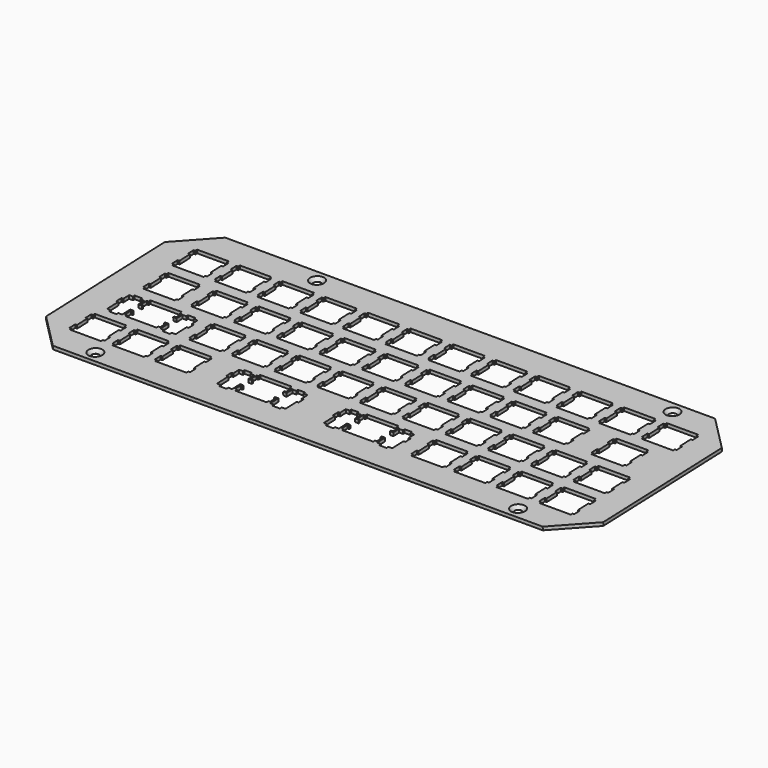
from build123d import *

# Parameters (mm, degrees)
SKETCH_W             = 248.5999154
SKETCH_H             = 96.199807
PAD_DEPTH            = 1.5
HOLE_D               = 3.4
HOLE_DEPTH           = 25
HOLE_CSINK_D         = 6.3
HOLE_CSINK_ANGLE     = 90
CHAMFER_SIZE         = 15
BODY_PLACEMENT_ANGLE = 2


with BuildPart() as part:
    # Sketch → Pad (new body)
    with BuildSketch(Plane(origin=(0, 0, 0), x_dir=(-1, 0, 0), z_dir=(0, 0, 1))):
        with Locations((-124.2999577, -48.0999035)):
            Rectangle(SKETCH_W, SKETCH_H)
        Polygon((-86.3420154, -26.525407), (-86.3420154, -25.525007), (-85.5426154, -25.525007), (-85.5426154, -22.427107), (-86.3420154, -22.427107), (-86.3420154, -21.824907), (-84.8180154, -21.824907), (-84.8180154, -25.055107), (-83.0925154, -25.055107), (-83.0925154, -25.977007), (-79.7919154, -25.977007), (-79.7919154, -25.055107), (-78.0669154, -25.055107), (-78.0669154, -21.824907), (-77.2428154, -21.824907), (-77.2428154, -19.026147), (-78.0669154, -19.026147), (-78.0669154, -12.756077), (-79.7919154, -12.756077), (-79.7919154, -11.774917), (-83.0925154, -11.774917), (-83.0925154, -12.756077), (-84.8180154, -12.756077), (-84.8180154, -17.225037), (-86.3420154, -17.225037), (-86.3420154, -16.625597), (-85.5426154, -16.625597), (-85.5426154, -13.525037), (-86.3420154, -13.525037), (-86.3420154, -12.525947), (-100.3427154, -12.525947), (-100.3427154, -13.525037), (-101.1421154, -13.525037), (-101.1421154, -16.625597), (-100.3427154, -16.625597), (-100.3427154, -17.225037), (-101.8670154, -17.225037), (-101.8670154, -12.756077), (-103.5921154, -12.756077), (-103.5921154, -11.774917), (-106.8927154, -11.774917), (-106.8927154, -12.756077), (-108.6178154, -12.756077), (-108.6178154, -19.026147), (-109.4419154, -19.026147), (-109.4419154, -21.824907), (-108.6178154, -21.824907), (-108.6178154, -25.055107), (-106.8927154, -25.055107), (-106.8927154, -25.977007), (-103.5921154, -25.977007), (-103.5921154, -25.055107), (-101.8670154, -25.055107), (-101.8670154, -21.824907), (-100.3427154, -21.824907), (-100.3427154, -22.427107), (-101.1421154, -22.427107), (-101.1421154, -25.525007), (-100.3427154, -25.525007), (-100.3427154, -26.525407), align=None, mode=Mode.SUBTRACT)
        Polygon((-133.9669154, -26.525407), (-133.9669154, -25.525007), (-133.1679154, -25.525007), (-133.1679154, -22.427107), (-133.9669154, -22.427107), (-133.9669154, -21.824907), (-132.4429154, -21.824907), (-132.4429154, -25.055107), (-130.7179154, -25.055107), (-130.7179154, -25.977007), (-127.4169154, -25.977007), (-127.4169154, -25.055107), (-125.6919154, -25.055107), (-125.6919154, -21.824907), (-124.8679154, -21.824907), (-124.8679154, -19.026147), (-125.6919154, -19.026147), (-125.6919154, -12.756077), (-127.4169154, -12.756077), (-127.4169154, -11.774917), (-130.7179154, -11.774917), (-130.7179154, -12.756077), (-132.4429154, -12.756077), (-132.4429154, -17.225037), (-133.9669154, -17.225037), (-133.9669154, -16.625597), (-133.1679154, -16.625597), (-133.1679154, -13.525037), (-133.9669154, -13.525037), (-133.9669154, -12.525947), (-147.9679154, -12.525947), (-147.9679154, -13.525037), (-148.7669154, -13.525037), (-148.7669154, -16.625597), (-147.9679154, -16.625597), (-147.9679154, -17.225037), (-149.4919154, -17.225037), (-149.4919154, -12.756077), (-151.2169154, -12.756077), (-151.2169154, -11.774917), (-154.5179154, -11.774917), (-154.5179154, -12.756077), (-156.2429154, -12.756077), (-156.2429154, -19.026147), (-157.0669154, -19.026147), (-157.0669154, -21.824907), (-156.2429154, -21.824907), (-156.2429154, -25.055107), (-154.5179154, -25.055107), (-154.5179154, -25.977007), (-151.2169154, -25.977007), (-151.2169154, -25.055107), (-149.4919154, -25.055107), (-149.4919154, -21.824907), (-147.9679154, -21.824907), (-147.9679154, -22.427107), (-148.7669154, -22.427107), (-148.7669154, -25.525007), (-147.9679154, -25.525007), (-147.9679154, -26.525407), align=None, mode=Mode.SUBTRACT)
        Polygon((-12.5245654, -26.525407), (-12.5245654, -25.525007), (-11.7239254, -25.525007), (-11.7239254, -22.427107), (-12.5245654, -22.427107), (-12.5245654, -16.625597), (-11.7239254, -16.625597), (-11.7239254, -13.525037), (-12.5245654, -13.525037), (-12.5245654, -12.525947), (-26.5241154, -12.525947), (-26.5241154, -13.525037), (-27.3247154, -13.525037), (-27.3247154, -16.625597), (-26.5241154, -16.625597), (-26.5241154, -22.427107), (-27.3247154, -22.427107), (-27.3247154, -25.525007), (-26.5241154, -25.525007), (-26.5241154, -26.525407), align=None, mode=Mode.SUBTRACT)
        Polygon((-31.5746154, -26.525407), (-31.5746154, -25.525007), (-30.7739154, -25.525007), (-30.7739154, -22.427107), (-31.5746154, -22.427107), (-31.5746154, -16.625597), (-30.7739154, -16.625597), (-30.7739154, -13.525037), (-31.5746154, -13.525037), (-31.5746154, -12.525947), (-45.5739154, -12.525947), (-45.5739154, -13.525037), (-46.3747154, -13.525037), (-46.3747154, -16.625597), (-45.5739154, -16.625597), (-45.5739154, -22.427107), (-46.3747154, -22.427107), (-46.3747154, -25.525007), (-45.5739154, -25.525007), (-45.5739154, -26.525407), align=None, mode=Mode.SUBTRACT)
        Polygon((-50.6246154, -26.525407), (-50.6246154, -25.525007), (-49.8238154, -25.525007), (-49.8238154, -22.427107), (-50.6246154, -22.427107), (-50.6246154, -16.625597), (-49.8238154, -16.625597), (-49.8238154, -13.525037), (-50.6246154, -13.525037), (-50.6246154, -12.525947), (-64.6239154, -12.525947), (-64.6239154, -13.525037), (-65.4247154, -13.525037), (-65.4247154, -16.625597), (-64.6239154, -16.625597), (-64.6239154, -22.427107), (-65.4247154, -22.427107), (-65.4247154, -25.525007), (-64.6239154, -25.525007), (-64.6239154, -26.525407), align=None, mode=Mode.SUBTRACT)
        Polygon((-164.9249154, -26.525407), (-164.9249154, -25.525007), (-164.1239154, -25.525007), (-164.1239154, -22.427107), (-164.9249154, -22.427107), (-164.9249154, -16.625597), (-164.1239154, -16.625597), (-164.1239154, -13.525037), (-164.9249154, -13.525037), (-164.9249154, -12.525947), (-178.9239154, -12.525947), (-178.9239154, -13.525037), (-179.7249154, -13.525037), (-179.7249154, -16.625597), (-178.9239154, -16.625597), (-178.9239154, -22.427107), (-179.7249154, -22.427107), (-179.7249154, -25.525007), (-178.9239154, -25.525007), (-178.9239154, -26.525407), align=None, mode=Mode.SUBTRACT)
        Polygon((-183.9749154, -26.525407), (-183.9749154, -25.525007), (-183.1739154, -25.525007), (-183.1739154, -22.427107), (-183.9749154, -22.427107), (-183.9749154, -16.625597), (-183.1739154, -16.625597), (-183.1739154, -13.525037), (-183.9749154, -13.525037), (-183.9749154, -12.525947), (-197.9739154, -12.525947), (-197.9739154, -13.525037), (-198.7749154, -13.525037), (-198.7749154, -16.625597), (-197.9739154, -16.625597), (-197.9739154, -22.427107), (-198.7749154, -22.427107), (-198.7749154, -25.525007), (-197.9739154, -25.525007), (-197.9739154, -26.525407), align=None, mode=Mode.SUBTRACT)
        Polygon((-203.0249154, -26.525407), (-203.0249154, -25.525007), (-202.2239154, -25.525007), (-202.2239154, -22.427107), (-203.0249154, -22.427107), (-203.0249154, -16.625597), (-202.2239154, -16.625597), (-202.2239154, -13.525037), (-203.0249154, -13.525037), (-203.0249154, -12.525947), (-217.0239154, -12.525947), (-217.0239154, -13.525037), (-217.8249154, -13.525037), (-217.8249154, -16.625597), (-217.0239154, -16.625597), (-217.0239154, -22.427107), (-217.8249154, -22.427107), (-217.8249154, -25.525007), (-217.0239154, -25.525007), (-217.0239154, -26.525407), align=None, mode=Mode.SUBTRACT)
        Polygon((-222.0749154, -26.525407), (-222.0749154, -25.525007), (-221.2739154, -25.525007), (-221.2739154, -22.427107), (-222.0749154, -22.427107), (-222.0749154, -16.625597), (-221.2739154, -16.625597), (-221.2739154, -13.525037), (-222.0749154, -13.525037), (-222.0749154, -12.525947), (-236.0739154, -12.525947), (-236.0739154, -13.525037), (-236.8749154, -13.525037), (-236.8749154, -16.625597), (-236.0739154, -16.625597), (-236.0739154, -22.427107), (-236.8749154, -22.427107), (-236.8749154, -25.525007), (-236.0739154, -25.525007), (-236.0739154, -26.525407), align=None, mode=Mode.SUBTRACT)
        Polygon((-22.0496154, -45.575307), (-22.0496154, -44.575007), (-21.2489154, -44.575007), (-21.2489154, -41.475807), (-22.0496154, -41.475807), (-22.0496154, -40.874907), (-20.5241154, -40.874907), (-20.5241154, -44.105107), (-18.7987654, -44.105107), (-18.7987654, -45.025707), (-15.4997554, -45.025707), (-15.4997554, -44.105107), (-13.7744654, -44.105107), (-13.7744654, -40.874907), (-12.9490054, -40.874907), (-12.9490054, -38.076107), (-13.7744654, -38.076107), (-13.7744654, -31.806107), (-15.4997554, -31.806107), (-15.4997554, -30.824907), (-18.7987654, -30.824907), (-18.7987654, -31.806107), (-20.5241154, -31.806107), (-20.5241154, -36.275007), (-22.0496154, -36.275007), (-22.0496154, -35.675607), (-21.2489154, -35.675607), (-21.2489154, -32.575007), (-22.0496154, -32.575007), (-22.0496154, -31.575907), (-36.0490154, -31.575907), (-36.0490154, -32.575007), (-36.8497154, -32.575007), (-36.8497154, -35.675607), (-36.0490154, -35.675607), (-36.0490154, -36.275007), (-37.5745154, -36.275007), (-37.5745154, -31.806107), (-39.2998154, -31.806107), (-39.2998154, -30.824907), (-42.5989154, -30.824907), (-42.5989154, -31.806107), (-44.3242154, -31.806107), (-44.3242154, -38.076107), (-45.1496154, -38.076107), (-45.1496154, -40.874907), (-44.3242154, -40.874907), (-44.3242154, -44.105107), (-42.5989154, -44.105107), (-42.5989154, -45.025707), (-39.2998154, -45.025707), (-39.2998154, -44.105107), (-37.5745154, -44.105107), (-37.5745154, -40.874907), (-36.0490154, -40.874907), (-36.0490154, -41.475807), (-36.8497154, -41.475807), (-36.8497154, -44.575007), (-36.0490154, -44.575007), (-36.0490154, -45.575307), align=None, mode=Mode.SUBTRACT)
        Polygon((-50.6246154, -45.575307), (-50.6246154, -44.575007), (-49.8238154, -44.575007), (-49.8238154, -41.475807), (-50.6246154, -41.475807), (-50.6246154, -35.675607), (-49.8238154, -35.675607), (-49.8238154, -32.575007), (-50.6246154, -32.575007), (-50.6246154, -31.575907), (-64.6239154, -31.575907), (-64.6239154, -32.575007), (-65.4247154, -32.575007), (-65.4247154, -35.675607), (-64.6239154, -35.675607), (-64.6239154, -41.475807), (-65.4247154, -41.475807), (-65.4247154, -44.575007), (-64.6239154, -44.575007), (-64.6239154, -45.575307), align=None, mode=Mode.SUBTRACT)
        Polygon((-69.6746154, -45.575307), (-69.6746154, -44.575007), (-68.8738154, -44.575007), (-68.8738154, -41.475807), (-69.6746154, -41.475807), (-69.6746154, -35.675607), (-68.8738154, -35.675607), (-68.8738154, -32.575007), (-69.6746154, -32.575007), (-69.6746154, -31.575907), (-83.6739154, -31.575907), (-83.6739154, -32.575007), (-84.4747154, -32.575007), (-84.4747154, -35.675607), (-83.6739154, -35.675607), (-83.6739154, -41.475807), (-84.4747154, -41.475807), (-84.4747154, -44.575007), (-83.6739154, -44.575007), (-83.6739154, -45.575307), align=None, mode=Mode.SUBTRACT)
        Polygon((-88.7246154, -45.575307), (-88.7246154, -44.575007), (-87.9238154, -44.575007), (-87.9238154, -41.475807), (-88.7246154, -41.475807), (-88.7246154, -35.675607), (-87.9238154, -35.675607), (-87.9238154, -32.575007), (-88.7246154, -32.575007), (-88.7246154, -31.575907), (-102.7239154, -31.575907), (-102.7239154, -32.575007), (-103.5233154, -32.575007), (-103.5233154, -35.675607), (-102.7239154, -35.675607), (-102.7239154, -41.475807), (-103.5233154, -41.475807), (-103.5233154, -44.575007), (-102.7239154, -44.575007), (-102.7239154, -45.575307), align=None, mode=Mode.SUBTRACT)
        Polygon((-107.7732154, -45.575307), (-107.7732154, -44.575007), (-106.9738154, -44.575007), (-106.9738154, -41.475807), (-107.7732154, -41.475807), (-107.7732154, -35.675607), (-106.9738154, -35.675607), (-106.9738154, -32.575007), (-107.7732154, -32.575007), (-107.7732154, -31.575907), (-121.7739154, -31.575907), (-121.7739154, -32.575007), (-122.5729154, -32.575007), (-122.5729154, -35.675607), (-121.7739154, -35.675607), (-121.7739154, -41.475807), (-122.5729154, -41.475807), (-122.5729154, -44.575007), (-121.7739154, -44.575007), (-121.7739154, -45.575307), align=None, mode=Mode.SUBTRACT)
        Polygon((-126.8229154, -45.575307), (-126.8229154, -44.575007), (-126.0239154, -44.575007), (-126.0239154, -41.475807), (-126.8229154, -41.475807), (-126.8229154, -35.675607), (-126.0239154, -35.675607), (-126.0239154, -32.575007), (-126.8229154, -32.575007), (-126.8229154, -31.575907), (-140.8239154, -31.575907), (-140.8239154, -32.575007), (-141.6249154, -32.575007), (-141.6249154, -35.675607), (-140.8239154, -35.675607), (-140.8239154, -41.475807), (-141.6249154, -41.475807), (-141.6249154, -44.575007), (-140.8239154, -44.575007), (-140.8239154, -45.575307), align=None, mode=Mode.SUBTRACT)
        Polygon((-145.8749154, -45.575307), (-145.8749154, -44.575007), (-145.0739154, -44.575007), (-145.0739154, -41.475807), (-145.8749154, -41.475807), (-145.8749154, -35.675607), (-145.0739154, -35.675607), (-145.0739154, -32.575007), (-145.8749154, -32.575007), (-145.8749154, -31.575907), (-159.8739154, -31.575907), (-159.8739154, -32.575007), (-160.6749154, -32.575007), (-160.6749154, -35.675607), (-159.8739154, -35.675607), (-159.8739154, -41.475807), (-160.6749154, -41.475807), (-160.6749154, -44.575007), (-159.8739154, -44.575007), (-159.8739154, -45.575307), align=None, mode=Mode.SUBTRACT)
        Polygon((-164.9249154, -45.575307), (-164.9249154, -44.575007), (-164.1239154, -44.575007), (-164.1239154, -41.475807), (-164.9249154, -41.475807), (-164.9249154, -35.675607), (-164.1239154, -35.675607), (-164.1239154, -32.575007), (-164.9249154, -32.575007), (-164.9249154, -31.575907), (-178.9239154, -31.575907), (-178.9239154, -32.575007), (-179.7249154, -32.575007), (-179.7249154, -35.675607), (-178.9239154, -35.675607), (-178.9239154, -41.475807), (-179.7249154, -41.475807), (-179.7249154, -44.575007), (-178.9239154, -44.575007), (-178.9239154, -45.575307), align=None, mode=Mode.SUBTRACT)
        Polygon((-183.9749154, -45.575307), (-183.9749154, -44.575007), (-183.1739154, -44.575007), (-183.1739154, -41.475807), (-183.9749154, -41.475807), (-183.9749154, -35.675607), (-183.1739154, -35.675607), (-183.1739154, -32.575007), (-183.9749154, -32.575007), (-183.9749154, -31.575907), (-197.9739154, -31.575907), (-197.9739154, -32.575007), (-198.7749154, -32.575007), (-198.7749154, -35.675607), (-197.9739154, -35.675607), (-197.9739154, -41.475807), (-198.7749154, -41.475807), (-198.7749154, -44.575007), (-197.9739154, -44.575007), (-197.9739154, -45.575307), align=None, mode=Mode.SUBTRACT)
        Polygon((-203.0249154, -45.575307), (-203.0249154, -44.575007), (-202.2239154, -44.575007), (-202.2239154, -41.475807), (-203.0249154, -41.475807), (-203.0249154, -35.675607), (-202.2239154, -35.675607), (-202.2239154, -32.575007), (-203.0249154, -32.575007), (-203.0249154, -31.575907), (-217.0239154, -31.575907), (-217.0239154, -32.575007), (-217.8249154, -32.575007), (-217.8249154, -35.675607), (-217.0239154, -35.675607), (-217.0239154, -41.475807), (-217.8249154, -41.475807), (-217.8249154, -44.575007), (-217.0239154, -44.575007), (-217.0239154, -45.575307), align=None, mode=Mode.SUBTRACT)
        Polygon((-222.0749154, -45.575307), (-222.0749154, -44.575007), (-221.2739154, -44.575007), (-221.2739154, -41.475807), (-222.0749154, -41.475807), (-222.0749154, -35.675607), (-221.2739154, -35.675607), (-221.2739154, -32.575007), (-222.0749154, -32.575007), (-222.0749154, -31.575907), (-236.0739154, -31.575907), (-236.0739154, -32.575007), (-236.8749154, -32.575007), (-236.8749154, -35.675607), (-236.0739154, -35.675607), (-236.0739154, -41.475807), (-236.8749154, -41.475807), (-236.8749154, -44.575007), (-236.0739154, -44.575007), (-236.0739154, -45.575307), align=None, mode=Mode.SUBTRACT)
        Polygon((-14.9058254, -64.625407), (-14.9058254, -63.624907), (-14.1051954, -63.624907), (-14.1051954, -60.525707), (-14.9058254, -60.525707), (-14.9058254, -54.725707), (-14.1051954, -54.725707), (-14.1051954, -51.625107), (-14.9058254, -51.625107), (-14.9058254, -50.626107), (-28.9053154, -50.626107), (-28.9053154, -51.625107), (-29.7059154, -51.625107), (-29.7059154, -54.725707), (-28.9053154, -54.725707), (-28.9053154, -60.525707), (-29.7059154, -60.525707), (-29.7059154, -63.624907), (-28.9053154, -63.624907), (-28.9053154, -64.625407), align=None, mode=Mode.SUBTRACT)
        Polygon((-36.3371154, -64.625407), (-36.3371154, -63.624907), (-35.5364154, -63.624907), (-35.5364154, -60.525707), (-36.3371154, -60.525707), (-36.3371154, -54.725707), (-35.5364154, -54.725707), (-35.5364154, -51.625107), (-36.3371154, -51.625107), (-36.3371154, -50.626107), (-50.3364154, -50.626107), (-50.3364154, -51.625107), (-51.1358154, -51.625107), (-51.1358154, -54.725707), (-50.3364154, -54.725707), (-50.3364154, -60.525707), (-51.1358154, -60.525707), (-51.1358154, -63.624907), (-50.3364154, -63.624907), (-50.3364154, -64.625407), align=None, mode=Mode.SUBTRACT)
        Polygon((-55.3871154, -64.625407), (-55.3871154, -63.624907), (-54.5863154, -63.624907), (-54.5863154, -60.525707), (-55.3871154, -60.525707), (-55.3871154, -54.725707), (-54.5863154, -54.725707), (-54.5863154, -51.625107), (-55.3871154, -51.625107), (-55.3871154, -50.626107), (-69.3864154, -50.626107), (-69.3864154, -51.625107), (-70.1858154, -51.625107), (-70.1858154, -54.725707), (-69.3864154, -54.725707), (-69.3864154, -60.525707), (-70.1858154, -60.525707), (-70.1858154, -63.624907), (-69.3864154, -63.624907), (-69.3864154, -64.625407), align=None, mode=Mode.SUBTRACT)
        Polygon((-74.4371154, -64.625407), (-74.4371154, -63.624907), (-73.6363154, -63.624907), (-73.6363154, -60.525707), (-74.4371154, -60.525707), (-74.4371154, -54.725707), (-73.6363154, -54.725707), (-73.6363154, -51.625107), (-74.4371154, -51.625107), (-74.4371154, -50.626107), (-88.4364154, -50.626107), (-88.4364154, -51.625107), (-89.2358154, -51.625107), (-89.2358154, -54.725707), (-88.4364154, -54.725707), (-88.4364154, -60.525707), (-89.2358154, -60.525707), (-89.2358154, -63.624907), (-88.4364154, -63.624907), (-88.4364154, -64.625407), align=None, mode=Mode.SUBTRACT)
        Polygon((-93.4871154, -64.625407), (-93.4871154, -63.624907), (-92.6863154, -63.624907), (-92.6863154, -60.525707), (-93.4871154, -60.525707), (-93.4871154, -54.725707), (-92.6863154, -54.725707), (-92.6863154, -51.625107), (-93.4871154, -51.625107), (-93.4871154, -50.626107), (-107.4864154, -50.626107), (-107.4864154, -51.625107), (-108.2858154, -51.625107), (-108.2858154, -54.725707), (-107.4864154, -54.725707), (-107.4864154, -60.525707), (-108.2858154, -60.525707), (-108.2858154, -63.624907), (-107.4864154, -63.624907), (-107.4864154, -64.625407), align=None, mode=Mode.SUBTRACT)
        Polygon((-112.5369154, -64.625407), (-112.5369154, -63.624907), (-111.7359154, -63.624907), (-111.7359154, -60.525707), (-112.5369154, -60.525707), (-112.5369154, -54.725707), (-111.7359154, -54.725707), (-111.7359154, -51.625107), (-112.5369154, -51.625107), (-112.5369154, -50.626107), (-126.5369154, -50.626107), (-126.5369154, -51.625107), (-127.3359154, -51.625107), (-127.3359154, -54.725707), (-126.5369154, -54.725707), (-126.5369154, -60.525707), (-127.3359154, -60.525707), (-127.3359154, -63.624907), (-126.5369154, -63.624907), (-126.5369154, -64.625407), align=None, mode=Mode.SUBTRACT)
        Polygon((-131.5869154, -64.625407), (-131.5869154, -63.624907), (-130.7859154, -63.624907), (-130.7859154, -60.525707), (-131.5869154, -60.525707), (-131.5869154, -54.725707), (-130.7859154, -54.725707), (-130.7859154, -51.625107), (-131.5869154, -51.625107), (-131.5869154, -50.626107), (-145.5869154, -50.626107), (-145.5869154, -51.625107), (-146.3859154, -51.625107), (-146.3859154, -54.725707), (-145.5869154, -54.725707), (-145.5869154, -60.525707), (-146.3859154, -60.525707), (-146.3859154, -63.624907), (-145.5869154, -63.624907), (-145.5869154, -64.625407), align=None, mode=Mode.SUBTRACT)
        Polygon((-150.6369154, -64.625407), (-150.6369154, -63.624907), (-149.8359154, -63.624907), (-149.8359154, -60.525707), (-150.6369154, -60.525707), (-150.6369154, -54.725707), (-149.8359154, -54.725707), (-149.8359154, -51.625107), (-150.6369154, -51.625107), (-150.6369154, -50.626107), (-164.6369154, -50.626107), (-164.6369154, -51.625107), (-165.4359154, -51.625107), (-165.4359154, -54.725707), (-164.6369154, -54.725707), (-164.6369154, -60.525707), (-165.4359154, -60.525707), (-165.4359154, -63.624907), (-164.6369154, -63.624907), (-164.6369154, -64.625407), align=None, mode=Mode.SUBTRACT)
        Polygon((-169.6869154, -64.625407), (-169.6869154, -63.624907), (-168.8859154, -63.624907), (-168.8859154, -60.525707), (-169.6869154, -60.525707), (-169.6869154, -54.725707), (-168.8859154, -54.725707), (-168.8859154, -51.625107), (-169.6869154, -51.625107), (-169.6869154, -50.626107), (-183.6869154, -50.626107), (-183.6869154, -51.625107), (-184.4859154, -51.625107), (-184.4859154, -54.725707), (-183.6869154, -54.725707), (-183.6869154, -60.525707), (-184.4859154, -60.525707), (-184.4859154, -63.624907), (-183.6869154, -63.624907), (-183.6869154, -64.625407), align=None, mode=Mode.SUBTRACT)
        Polygon((-188.7369154, -64.625407), (-188.7369154, -63.624907), (-187.9359154, -63.624907), (-187.9359154, -60.525707), (-188.7369154, -60.525707), (-188.7369154, -54.725707), (-187.9359154, -54.725707), (-187.9359154, -51.625107), (-188.7369154, -51.625107), (-188.7369154, -50.626107), (-202.7369154, -50.626107), (-202.7369154, -51.625107), (-203.5359154, -51.625107), (-203.5359154, -54.725707), (-202.7369154, -54.725707), (-202.7369154, -60.525707), (-203.5359154, -60.525707), (-203.5359154, -63.624907), (-202.7369154, -63.624907), (-202.7369154, -64.625407), align=None, mode=Mode.SUBTRACT)
        Polygon((-214.9309154, -64.625407), (-214.9309154, -63.624907), (-214.1299154, -63.624907), (-214.1299154, -60.525707), (-214.9309154, -60.525707), (-214.9309154, -54.725707), (-214.1299154, -54.725707), (-214.1299154, -51.625107), (-214.9309154, -51.625107), (-214.9309154, -50.626107), (-228.9299154, -50.626107), (-228.9299154, -51.625107), (-229.7309154, -51.625107), (-229.7309154, -54.725707), (-228.9299154, -54.725707), (-228.9299154, -60.525707), (-229.7309154, -60.525707), (-229.7309154, -63.624907), (-228.9299154, -63.624907), (-228.9299154, -64.625407), align=None, mode=Mode.SUBTRACT)
        Polygon((-12.5245654, -83.675407), (-12.5245654, -82.674907), (-11.7239254, -82.674907), (-11.7239254, -79.575707), (-12.5245654, -79.575707), (-12.5245654, -73.775707), (-11.7239254, -73.775707), (-11.7239254, -70.675107), (-12.5245654, -70.675107), (-12.5245654, -69.676107), (-26.5241154, -69.676107), (-26.5241154, -70.675107), (-27.3247154, -70.675107), (-27.3247154, -73.775707), (-26.5241154, -73.775707), (-26.5241154, -79.575707), (-27.3247154, -79.575707), (-27.3247154, -82.674907), (-26.5241154, -82.674907), (-26.5241154, -83.675407), align=None, mode=Mode.SUBTRACT)
        Polygon((-31.5746154, -83.675407), (-31.5746154, -82.674907), (-30.7739154, -82.674907), (-30.7739154, -79.575707), (-31.5746154, -79.575707), (-31.5746154, -73.775707), (-30.7739154, -73.775707), (-30.7739154, -70.675107), (-31.5746154, -70.675107), (-31.5746154, -69.676107), (-45.5739154, -69.676107), (-45.5739154, -70.675107), (-46.3747154, -70.675107), (-46.3747154, -73.775707), (-45.5739154, -73.775707), (-45.5739154, -79.575707), (-46.3747154, -79.575707), (-46.3747154, -82.674907), (-45.5739154, -82.674907), (-45.5739154, -83.675407), align=None, mode=Mode.SUBTRACT)
        Polygon((-50.6246154, -83.675407), (-50.6246154, -82.674907), (-49.8238154, -82.674907), (-49.8238154, -79.575707), (-50.6246154, -79.575707), (-50.6246154, -73.775707), (-49.8238154, -73.775707), (-49.8238154, -70.675107), (-50.6246154, -70.675107), (-50.6246154, -69.676107), (-64.6239154, -69.676107), (-64.6239154, -70.675107), (-65.4247154, -70.675107), (-65.4247154, -73.775707), (-64.6239154, -73.775707), (-64.6239154, -79.575707), (-65.4247154, -79.575707), (-65.4247154, -82.674907), (-64.6239154, -82.674907), (-64.6239154, -83.675407), align=None, mode=Mode.SUBTRACT)
        Polygon((-69.6746154, -83.675407), (-69.6746154, -82.674907), (-68.8738154, -82.674907), (-68.8738154, -79.575707), (-69.6746154, -79.575707), (-69.6746154, -73.775707), (-68.8738154, -73.775707), (-68.8738154, -70.675107), (-69.6746154, -70.675107), (-69.6746154, -69.676107), (-83.6739154, -69.676107), (-83.6739154, -70.675107), (-84.4747154, -70.675107), (-84.4747154, -73.775707), (-83.6739154, -73.775707), (-83.6739154, -79.575707), (-84.4747154, -79.575707), (-84.4747154, -82.674907), (-83.6739154, -82.674907), (-83.6739154, -83.675407), align=None, mode=Mode.SUBTRACT)
        Polygon((-88.7246154, -83.675407), (-88.7246154, -82.674907), (-87.9238154, -82.674907), (-87.9238154, -79.575707), (-88.7246154, -79.575707), (-88.7246154, -73.775707), (-87.9238154, -73.775707), (-87.9238154, -70.675107), (-88.7246154, -70.675107), (-88.7246154, -69.676107), (-102.7239154, -69.676107), (-102.7239154, -70.675107), (-103.5233154, -70.675107), (-103.5233154, -73.775707), (-102.7239154, -73.775707), (-102.7239154, -79.575707), (-103.5233154, -79.575707), (-103.5233154, -82.674907), (-102.7239154, -82.674907), (-102.7239154, -83.675407), align=None, mode=Mode.SUBTRACT)
        Polygon((-107.7732154, -83.675407), (-107.7732154, -82.674907), (-106.9738154, -82.674907), (-106.9738154, -79.575707), (-107.7732154, -79.575707), (-107.7732154, -73.775707), (-106.9738154, -73.775707), (-106.9738154, -70.675107), (-107.7732154, -70.675107), (-107.7732154, -69.676107), (-121.7739154, -69.676107), (-121.7739154, -70.675107), (-122.5729154, -70.675107), (-122.5729154, -73.775707), (-121.7739154, -73.775707), (-121.7739154, -79.575707), (-122.5729154, -79.575707), (-122.5729154, -82.674907), (-121.7739154, -82.674907), (-121.7739154, -83.675407), align=None, mode=Mode.SUBTRACT)
        Polygon((-126.8229154, -83.675407), (-126.8229154, -82.674907), (-126.0239154, -82.674907), (-126.0239154, -79.575707), (-126.8229154, -79.575707), (-126.8229154, -73.775707), (-126.0239154, -73.775707), (-126.0239154, -70.675107), (-126.8229154, -70.675107), (-126.8229154, -69.676107), (-140.8239154, -69.676107), (-140.8239154, -70.675107), (-141.6249154, -70.675107), (-141.6249154, -73.775707), (-140.8239154, -73.775707), (-140.8239154, -79.575707), (-141.6249154, -79.575707), (-141.6249154, -82.674907), (-140.8239154, -82.674907), (-140.8239154, -83.675407), align=None, mode=Mode.SUBTRACT)
        Polygon((-145.8749154, -83.675407), (-145.8749154, -82.674907), (-145.0739154, -82.674907), (-145.0739154, -79.575707), (-145.8749154, -79.575707), (-145.8749154, -73.775707), (-145.0739154, -73.775707), (-145.0739154, -70.675107), (-145.8749154, -70.675107), (-145.8749154, -69.676107), (-159.8739154, -69.676107), (-159.8739154, -70.675107), (-160.6749154, -70.675107), (-160.6749154, -73.775707), (-159.8739154, -73.775707), (-159.8739154, -79.575707), (-160.6749154, -79.575707), (-160.6749154, -82.674907), (-159.8739154, -82.674907), (-159.8739154, -83.675407), align=None, mode=Mode.SUBTRACT)
        Polygon((-164.9249154, -83.675407), (-164.9249154, -82.674907), (-164.1239154, -82.674907), (-164.1239154, -79.575707), (-164.9249154, -79.575707), (-164.9249154, -73.775707), (-164.1239154, -73.775707), (-164.1239154, -70.675107), (-164.9249154, -70.675107), (-164.9249154, -69.676107), (-178.9239154, -69.676107), (-178.9239154, -70.675107), (-179.7249154, -70.675107), (-179.7249154, -73.775707), (-178.9239154, -73.775707), (-178.9239154, -79.575707), (-179.7249154, -79.575707), (-179.7249154, -82.674907), (-178.9239154, -82.674907), (-178.9239154, -83.675407), align=None, mode=Mode.SUBTRACT)
        Polygon((-183.9749154, -83.675407), (-183.9749154, -82.674907), (-183.1739154, -82.674907), (-183.1739154, -79.575707), (-183.9749154, -79.575707), (-183.9749154, -73.775707), (-183.1739154, -73.775707), (-183.1739154, -70.675107), (-183.9749154, -70.675107), (-183.9749154, -69.676107), (-197.9739154, -69.676107), (-197.9739154, -70.675107), (-198.7749154, -70.675107), (-198.7749154, -73.775707), (-197.9739154, -73.775707), (-197.9739154, -79.575707), (-198.7749154, -79.575707), (-198.7749154, -82.674907), (-197.9739154, -82.674907), (-197.9739154, -83.675407), align=None, mode=Mode.SUBTRACT)
        Polygon((-203.0249154, -83.675407), (-203.0249154, -82.674907), (-202.2239154, -82.674907), (-202.2239154, -79.575707), (-203.0249154, -79.575707), (-203.0249154, -73.775707), (-202.2239154, -73.775707), (-202.2239154, -70.675107), (-203.0249154, -70.675107), (-203.0249154, -69.676107), (-217.0239154, -69.676107), (-217.0239154, -70.675107), (-217.8249154, -70.675107), (-217.8249154, -73.775707), (-217.0239154, -73.775707), (-217.0239154, -79.575707), (-217.8249154, -79.575707), (-217.8249154, -82.674907), (-217.0239154, -82.674907), (-217.0239154, -83.675407), align=None, mode=Mode.SUBTRACT)
        Polygon((-222.0749154, -83.675407), (-222.0749154, -82.674907), (-221.2739154, -82.674907), (-221.2739154, -79.575707), (-222.0749154, -79.575707), (-222.0749154, -73.775707), (-221.2739154, -73.775707), (-221.2739154, -70.675107), (-222.0749154, -70.675107), (-222.0749154, -69.676107), (-236.0739154, -69.676107), (-236.0739154, -70.675107), (-236.8749154, -70.675107), (-236.8749154, -73.775707), (-236.0739154, -73.775707), (-236.0739154, -79.575707), (-236.8749154, -79.575707), (-236.8749154, -82.674907), (-236.0739154, -82.674907), (-236.0739154, -83.675407), align=None, mode=Mode.SUBTRACT)
    extrude(amount=PAD_DEPTH)

    # Hole
    with Locations(Plane(origin=(0, 0, 1.5), x_dir=(-1, 0, 0), z_dir=(0, 0, 1))):
        with Locations((-60, -91.199807), (-218.5999154, -91.199807), (-30, -5), (-218.5999154, -5)):
            CounterSinkHole(HOLE_D / 2, HOLE_CSINK_D / 2, depth=HOLE_DEPTH, counter_sink_angle=HOLE_CSINK_ANGLE)

    # Chamfer
    chamfer_edges = [part.edges().sort_by_distance(p)[0] for p in [
        (248.599915, 0, 0.75),
        (248.599915, 96.199807, 0.75),
        (0, 96.199807, 0.75),
        (0, 0, 0.75),
    ]]
    chamfer(chamfer_edges, length=CHAMFER_SIZE)


with BuildPart() as part_1:
    # Body placement: moved
    add(part.part.moved(Location((5.006, 11.0198321295, 12.2426785325))).rotate(Axis((5.006, 11.0198321295, 12.2426785325), (1, 0, 0)), BODY_PLACEMENT_ANGLE))


solid = part_1.part
